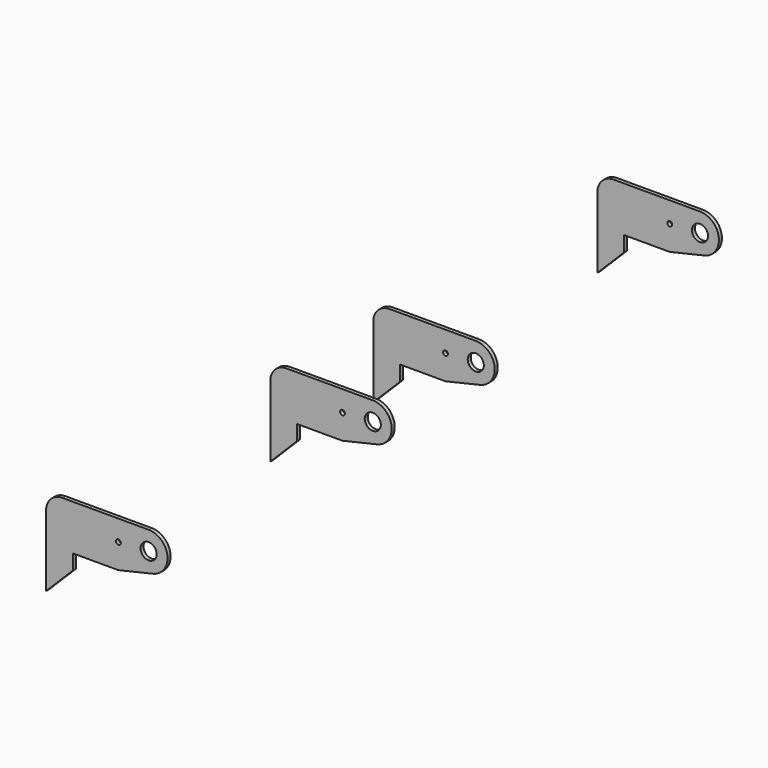
from build123d import *

# Parameters (mm, degrees)
SKETCH_R      = 13.49375
SKETCH_R_2    = 4.064
PAD_DEPTH     = 6.35
ARRAY_X_COUNT = 2
ARRAY_X_PITCH = 469.9
ARRAY_Y_COUNT = 2
ARRAY_Y_PITCH = 685.8


with BuildPart() as part:
    # Sketch → Pad (new body)
    with BuildSketch(Plane.XZ):
        with BuildLine():
            Line((-76.2, -25.4), (-76.2, 0))
            Line((-76.2, 0), (0, 0))
            Line((0, 0), (58.011414, 13.529812))
            ThreePointArc((58.011414, 13.529812), (82.341865, 48.0795), (50.8, 76.2))
            Line((50.8, 76.2), (-93.916056, 76.2))
            ThreePointArc((-93.916056, 76.2), (-113.138913, 68.237632), (-121.101281, 49.014775))
            Line((-121.101281, -70.301281), (-121.101281, 49.014775))
            Line((-121.101281, -70.301281), (-76.2, -25.4))
        make_face()
        with Locations((50.8, 44.45)):
            Circle(SKETCH_R, mode=Mode.SUBTRACT)
        with Locations((0.08352, 41.538191)):
            Circle(SKETCH_R_2, mode=Mode.SUBTRACT)
    extrude(amount=PAD_DEPTH)

    # Array X: part ×2


with BuildPart() as part_1:
    add(part.part)
    with Locations(*[(0, i * ARRAY_X_PITCH, 0) for i in range(1, ARRAY_X_COUNT)]):
        add(part.part)

    # Array Y: part ×2


with BuildPart() as part_2:
    add(part_1.part)
    with Locations(*[(0, i * ARRAY_Y_PITCH, 0) for i in range(1, ARRAY_Y_COUNT)]):
        add(part_1.part)


solid = part_2.part
